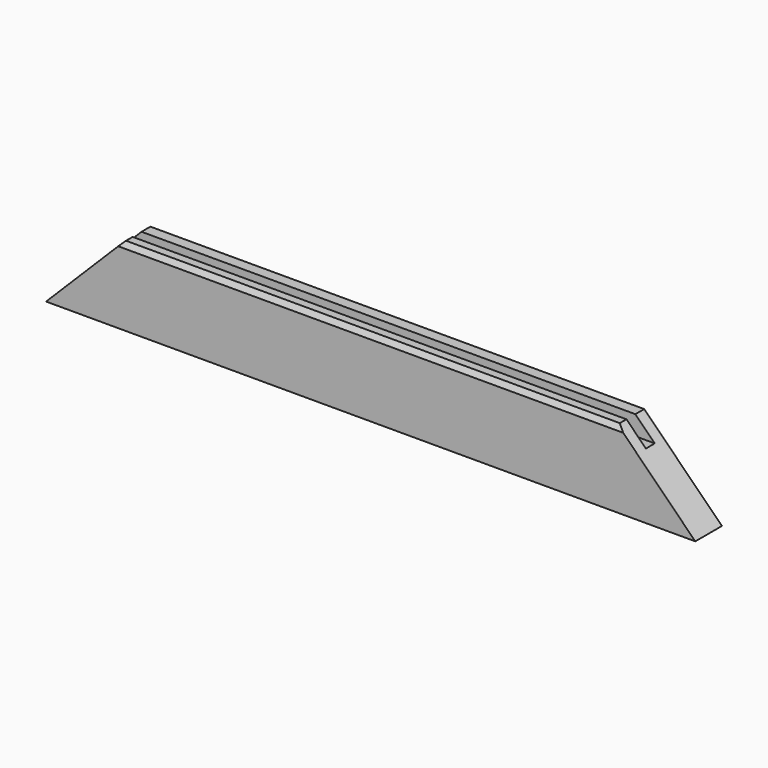
from build123d import *

# Parameters (mm, degrees)
F0_W     = 371.475
F0_H     = 44.45
F1_DEPTH = 19.05
F2_W     = 6.35
F2_H     = 11.1125
F3_DEPTH = 371.476
F4_SIZE2 = 3.175
F4_SIZE  = 1.5875
F6_DEPTH = 19.051


with BuildPart() as f1:
    # F0 (on Front) → F1 (new body)
    with BuildSketch(Plane.XZ):
        Rectangle(F0_W, F0_H)
    extrude(amount=F1_DEPTH)

    # F2 (on face) → F3 (cut, through all)
    with BuildSketch(Plane(origin=(-185.7375, 0, 0), x_dir=(0, -1, 0), z_dir=(-1, 0, 0))):
        with Locations((9.525, 16.66875)):
            Rectangle(F2_W, F2_H)
    extrude(amount=-F3_DEPTH, mode=Mode.SUBTRACT)

    # F4
    f4_edges = [f1.edges().sort_by_distance(p)[0] for p in [
        (0, -19.05, 22.225),
    ]]
    chamfer(f4_edges, length=F4_SIZE, length2=F4_SIZE2)

    # F5 (on face) → F6 (cut, through all)
    with BuildSketch(Plane(origin=(0, 0, 0), x_dir=(-1, 0, 0), z_dir=(0, 1, 0))):
        Polygon((-185.7375, 22.225), (-185.7375, -22.225), (-141.2875, 22.225), align=None)
        Polygon((141.2875, 22.225), (185.7375, -22.225), (185.7375, 22.225), align=None)
    extrude(amount=-F6_DEPTH, mode=Mode.SUBTRACT)


solid = f1.part
